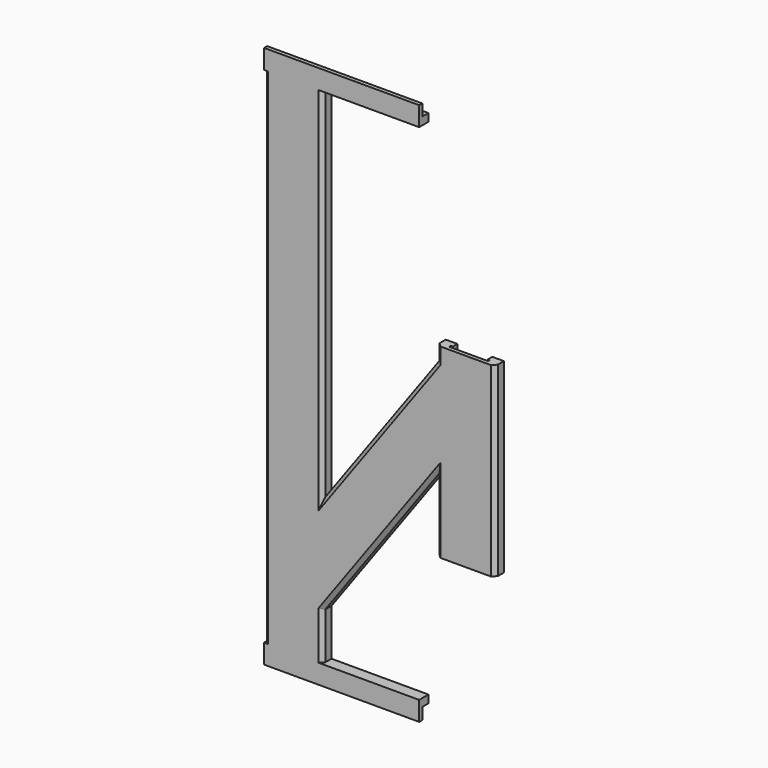
from build123d import *

# Parameters (mm, degrees)
PAD_DEPTH       = 140
PAD001_DEPTH    = 2
SKETCH002_W     = 15
SKETCH002_H     = 2
PAD002_DEPTH    = 55
PAD003_DEPTH    = 2
PAD004_DEPTH    = 48
SKETCH006_W     = 3
SKETCH006_H     = 5
PAD005_DEPTH    = 40
SKETCH007_W     = 2
SKETCH007_H     = 3
POCKET_DEPTH    = 40
SKETCH008_W     = 3
SKETCH008_H     = 5
PAD006_DEPTH    = 40
SKETCH009_W     = 2
SKETCH009_H     = 3
POCKET001_DEPTH = 40
PAD007_DEPTH    = 73.5
POCKET002_DEPTH = 134
POCKET003_DEPTH = 48
POCKET004_DEPTH = 72


with BuildPart() as part:
    # Sketch001 → Pad (new body)
    with BuildSketch(Plane.XY):
        Polygon((1, -3), (0, -2), (0, 0), (15, 0), (15, -2), (14, -3), align=None)
    extrude(amount=PAD_DEPTH)

    # Sketch (on Face3 of Pad) → Pad001 (join)
    with BuildSketch(Plane(origin=(0, -2, 0), x_dir=(-1, 0, 0), z_dir=(0, 1, 0))):
        Polygon((-15, 42.5195242506), (-15, 17), (-27.1352549156, 33.7027454662), align=None)
    extrude(amount=PAD001_DEPTH)

    # Sketch002 (on Face13 of Pad001) → Pad002 (join)
    with BuildSketch(Plane(origin=(25.4016078463, 0, 34.9623137906), x_dir=(0.8090169944, 0, -0.5877852523), z_dir=(0.5877852523, 0, 0.8090169944))):
        with Locations((-5.3570943733, -1)):
            Rectangle(SKETCH002_W, SKETCH002_H)
    extrude(amount=PAD002_DEPTH)

    # Sketch003 (on Face15 of Pad002) → Pad003 (join)
    with BuildSketch(Plane(origin=(0, -2, 2), x_dir=(-1, 0, 0), z_dir=(0, 1, 0))):
        Polygon((-44.4634437917, 85.0154589412), (-59.4634437917, 85.0154589412), (-59.4634437917, 76.1986801568), align=None)
    extrude(amount=PAD003_DEPTH)

    # Sketch004 (on Face26 of Pad003) → Pad004 (join)
    with BuildSketch(Plane.XY.offset(39.0154589412)):
        Polygon((59.4634437917, 0), (44.4634437917, 0), (44.4634437917, -2), (45.4634437917, -3), (58.4634437917, -3), (59.4634437917, -2), align=None)
    extrude(amount=PAD004_DEPTH)

    # Sketch006 (on Face3 of Pad004) → Pad005 (join)
    with BuildSketch(Plane(origin=(40, 0, 0), x_dir=(0, -1, 0), z_dir=(-1, 0, 0))):
        with Locations((1.5, 2.5)):
            Rectangle(SKETCH006_W, SKETCH006_H)
    extrude(amount=PAD005_DEPTH)

    # Sketch007 (on Face3 of Pad005) → Pocket (cut)
    with BuildSketch(Plane(origin=(0, 0, 0), x_dir=(0, -1, 0), z_dir=(-1, 0, 0))):
        with Locations((1, 1.5)):
            Rectangle(SKETCH007_W, SKETCH007_H)
    extrude(amount=-POCKET_DEPTH, mode=Mode.SUBTRACT)

    # Sketch008 (on Face20 of Pocket) → Pad006 (join)
    with BuildSketch(Plane(origin=(40, 0, 0), x_dir=(0, -1, 0), z_dir=(-1, 0, 0))):
        with Locations((1.5, 137.5)):
            Rectangle(SKETCH008_W, SKETCH008_H)
    extrude(amount=PAD006_DEPTH)

    # Sketch009 (on Face30 of Pad006) → Pocket001 (cut)
    with BuildSketch(Plane(origin=(0, 0, 0), x_dir=(0, -1, 0), z_dir=(-1, 0, 0))):
        with Locations((1, 138.5)):
            Rectangle(SKETCH009_W, SKETCH009_H)
    extrude(amount=-POCKET001_DEPTH, mode=Mode.SUBTRACT)

    # Sketch005 (on DatumPlane) → Pad007 (join)
    with BuildSketch(Plane(origin=(57.9083234174, -2, 76.0582405894), x_dir=(0, -1, 0), z_dir=(-0.5877852523, 0, -0.8090169944))):
        Polygon((0, 0), (0, 15), (1, 14), (1, 1), align=None)
    extrude(amount=PAD007_DEPTH)

    # Sketch010 (on Face8 of Pad007) → Pocket002 (cut)
    with BuildSketch(Plane(origin=(0, 0, 3), x_dir=(1, 0, 0), z_dir=(0, 0, -1))):
        Polygon((3, 0), (3, 1.5), (2.5, 1.5), (2.5, 2), (12.5, 2), (12.5, 1.5), (12, 1.5), (12, 0), align=None)
    extrude(amount=-POCKET002_DEPTH, mode=Mode.SUBTRACT)

    # Sketch011 (on Face66 of Pocket002) → Pocket003 (cut)
    with BuildSketch(Plane(origin=(0, 0, 39.0154589412), x_dir=(1, 0, 0), z_dir=(0, 0, -1))):
        Polygon((46.9634437917, 2), (56.9634437917, 2), (56.9634437917, 1.5), (56.4634437917, 1.5), (56.4634437917, 0), (47.4634437917, 0), (47.4634437917, 1.5), (46.9634437917, 1.5), align=None)
    extrude(amount=-POCKET003_DEPTH, mode=Mode.SUBTRACT)

    # Sketch012 (on DatumPlane) → Pocket004 (cut)
    with BuildSketch(Plane(origin=(15, -2, 17), x_dir=(0, -1, 0), z_dir=(-0.5877852523, 0, -0.8090169944))):
        Polygon((0, 2.5), (-0.5, 2.5), (-0.5, 3), (-2, 3), (-2, 12), (-0.5, 12), (-0.5, 12.5), (0, 12.5), align=None)
    extrude(amount=-POCKET004_DEPTH, mode=Mode.SUBTRACT)


solid = part.part
